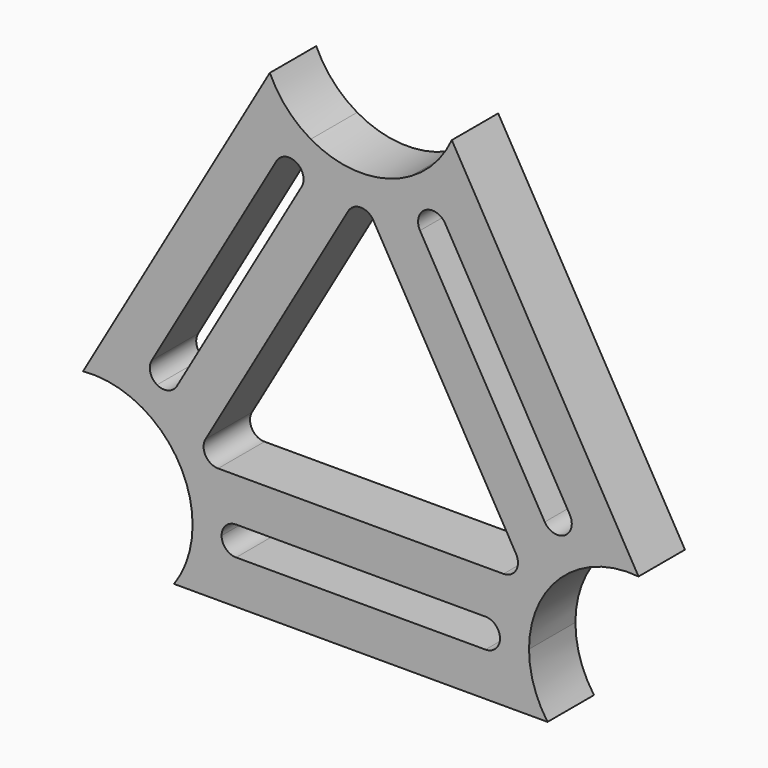
from build123d import *

# Parameters (mm, degrees)
F1_DEPTH = 10


with BuildPart() as f1:
    # F0 (on Front) → F1 (new body)
    with BuildSketch(Plane.XZ):
        with BuildLine():
            ThreePointArc((-55.31313, 17.172587), (-50.010384, 16.855003), (-45.055722, 14.938938))
            Line((-45.055722, 14.938938), (-42.555722, 19.269065))
            ThreePointArc((-42.555722, 19.269065), (-43.720537, 20.787081), (-43.470786, 22.684129))
            Line((-43.470786, 22.684129), (-21.970786, 59.923221))
            ThreePointArc((-21.970786, 59.923221), (-20.45277, 61.088036), (-18.555722, 60.838285))
            Line((-18.555722, 60.838285), (-16.055722, 65.168412))
            ThreePointArc((-16.055722, 65.168412), (-20.192413, 68.501242), (-23.118823, 72.934763))
            Line((-23.118823, 72.934763), (-24.715976, 70.168412))
            Line((-24.715976, 70.168412), (-53.715976, 19.938938))
            Line((-53.715976, 19.938938), (-55.31313, 17.172587))
        make_face()
        with BuildLine():
            ThreePointArc((-45.055722, 14.938938), (-38.741784, 8.625), (-36.430722, 0))
            Line((-36.430722, 0), (-31.430722, 0))
            ThreePointArc((-31.430722, 0), (-30.698489, 1.767767), (-28.930722, 2.5))
            Line((-28.930722, 2.5), (14.069278, 2.5))
            ThreePointArc((14.069278, 2.5), (15.837045, 1.767767), (16.569278, 0))
            Line((16.569278, 0), (21.569278, 0))
            ThreePointArc((21.569278, 0), (23.88034, 8.625), (30.194278, 14.938938))
            Line((30.194278, 14.938938), (27.694278, 19.269065))
            ThreePointArc((27.694278, 19.269065), (25.79723, 19.019314), (24.279214, 20.184129))
            Line((24.279214, 20.184129), (2.779214, 57.423221))
            ThreePointArc((2.779214, 57.423221), (2.529463, 59.320269), (3.694278, 60.838285))
            Line((3.694278, 60.838285), (1.194278, 65.168412))
            ThreePointArc((1.194278, 65.168412), (-7.430722, 62.85735), (-16.055722, 65.168412))
            Line((-16.055722, 65.168412), (-18.555722, 60.838285))
            ThreePointArc((-18.555722, 60.838285), (-17.640659, 59.923221), (-17.305722, 58.673221))
            ThreePointArc((-17.305722, 58.673221), (-17.390908, 58.026173), (-17.640659, 57.423221))
            Line((-17.640659, 57.423221), (-39.140659, 20.184129))
            ThreePointArc((-39.140659, 20.184129), (-40.658674, 19.019314), (-42.555722, 19.269065))
            Line((-42.555722, 19.269065), (-45.055722, 14.938938))
        make_face()
        with BuildLine():
            Line((-34.19515, 13.75), (-9.595786, 56.357349))
            ThreePointArc((-9.595786, 56.357349), (-7.430722, 57.607349), (-5.265659, 56.357349))
            Line((-5.265659, 56.357349), (19.333706, 13.75))
            ThreePointArc((19.333706, 13.75), (19.333706, 11.25), (17.168642, 10))
            Line((17.168642, 10), (-32.030087, 10))
            ThreePointArc((-32.030087, 10), (-34.19515, 11.25), (-34.19515, 13.75))
        make_face(mode=Mode.SUBTRACT)
        with BuildLine():
            Line((27.694278, 19.269065), (30.194278, 14.938938))
            ThreePointArc((30.194278, 14.938938), (35.14894, 16.855003), (40.451686, 17.172587))
            Line((40.451686, 17.172587), (8.257378, 72.934763))
            ThreePointArc((8.257378, 72.934763), (5.330969, 68.501242), (1.194278, 65.168412))
            Line((1.194278, 65.168412), (3.694278, 60.838285))
            ThreePointArc((3.694278, 60.838285), (5.591326, 61.088036), (7.109341, 59.923221))
            Line((7.109341, 59.923221), (12.294488, 50.942284))
            Line((12.294488, 50.942284), (28.609341, 22.684129))
            ThreePointArc((28.609341, 22.684129), (28.859092, 22.081176), (28.944278, 21.434129))
            ThreePointArc((28.944278, 21.434129), (28.609341, 20.184129), (27.694278, 19.269065))
        make_face()
        with BuildLine():
            ThreePointArc((-36.430722, 0), (-37.248692, -5.248895), (-39.625029, -10))
            Line((-39.625029, -10), (24.763585, -10))
            ThreePointArc((24.763585, -10), (22.387248, -5.248895), (21.569278, 0))
            Line((21.569278, 0), (16.569278, 0))
            ThreePointArc((16.569278, 0), (15.837045, -1.767767), (14.069278, -2.5))
            Line((14.069278, -2.5), (-28.930722, -2.5))
            ThreePointArc((-28.930722, -2.5), (-30.698489, -1.767767), (-31.430722, 0))
            Line((-31.430722, 0), (-36.430722, 0))
        make_face()
    extrude(amount=F1_DEPTH)


solid = f1.part
